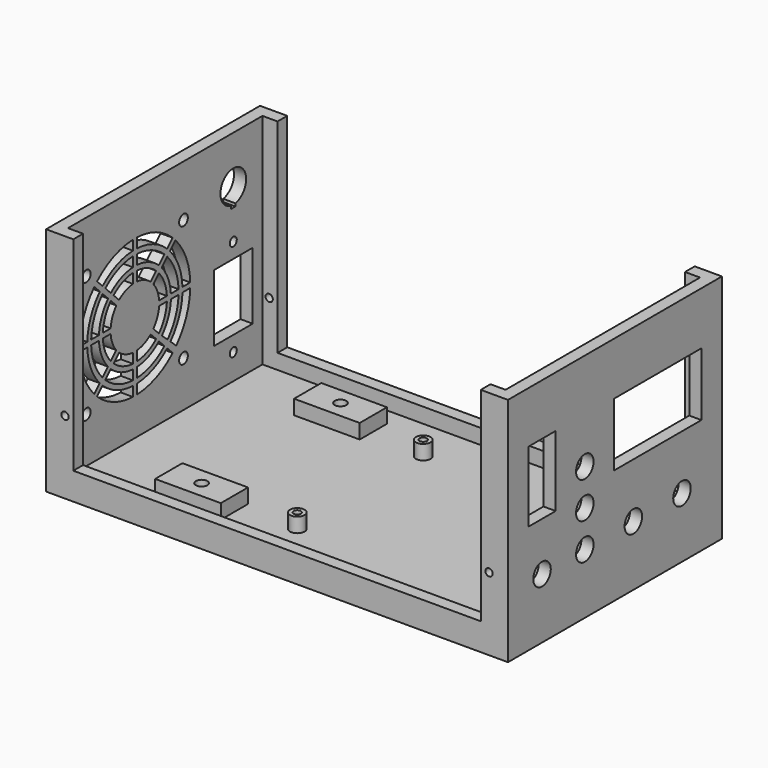
from build123d import *

# Parameters (mm, degrees)
SKETCH_W        = 190
SKETCH_H        = 110
PAD_DEPTH       = 95
SKETCH003_W     = 180
SKETCH003_H     = 100
POCKET_DEPTH    = 90
SKETCH001_R     = 4.5
SKETCH001_W     = 45
SKETCH001_H     = 26
SKETCH001_W_2   = 14
SKETCH001_H_2   = 29
POCKET001_DEPTH = 5
SKETCH005_R     = 1.5
SKETCH005_W     = 167.6
SKETCH005_H     = 83.8
POCKET003_DEPTH = 110.001
SKETCH004_R     = 3
SKETCH004_R_2   = 1.5
SKETCH004_W     = 27
SKETCH004_H     = 14
SKETCH004_R_3   = 2.3749
PAD001_DEPTH    = 6
SKETCH002_R     = 1.8
SKETCH002_R_2   = 2.25
SKETCH002_W     = 20
SKETCH002_H     = 27.5
POCKET004_DEPTH = 5


with BuildPart() as part:
    # Sketch → Pad (new body)
    with BuildSketch(Plane.XY):
        Rectangle(SKETCH_W, SKETCH_H)
    extrude(amount=PAD_DEPTH)

    # Sketch003 (on Face6 of Pad) → Pocket (cut)
    with BuildSketch(Plane.XY.offset(95)):
        Rectangle(SKETCH003_W, SKETCH003_H)
    extrude(amount=-POCKET_DEPTH, mode=Mode.SUBTRACT)

    # Sketch001 → Pocket001 (cut)
    with BuildSketch(Plane.YZ.offset(90)):
        with Locations((-15.493889, 24.795147)):
            Circle(SKETCH001_R)
        with Locations((34.461853, 24.795147)):
            Circle(SKETCH001_R)
        with Locations((-15.493889, 54.795147)):
            Circle(SKETCH001_R)
        with Locations((9.461853, 24.795147)):
            Circle(SKETCH001_R)
        with Locations((-15.493889, 39.795147)):
            Circle(SKETCH001_R)
        with Locations((-37.493889, 24.8)):
            Circle(SKETCH001_R)
        with Locations((21.961853, 60.262904)):
            Rectangle(SKETCH001_W, SKETCH001_H)
        with Locations((-37.493889, 59.3)):
            Rectangle(SKETCH001_W_2, SKETCH001_H_2)
    extrude(amount=POCKET001_DEPTH, mode=Mode.SUBTRACT)

    # Sketch005 → Pocket003 (cut, through all)
    with BuildSketch(Plane.XZ.offset(55)):
        with Locations((87.225, 30)):
            Circle(SKETCH005_R)
        with Locations((-87.225, 30)):
            Circle(SKETCH005_R)
        with Locations((0, 53.1)):
            Rectangle(SKETCH005_W, SKETCH005_H)
    extrude(amount=-POCKET003_DEPTH, mode=Mode.SUBTRACT)

    # Sketch004 → Pad001 (join)
    with BuildSketch(Plane.XY.offset(5)):
        with Locations((-9.767759, 32.384998)):
            Circle(SKETCH004_R)
        with Locations((-9.767759, 32.384998)):
            Circle(SKETCH004_R_2, mode=Mode.SUBTRACT)
        with Locations((80.402245, 32.384998)):
            Circle(SKETCH004_R)
        with Locations((80.402245, 32.384998)):
            Circle(SKETCH004_R_2, mode=Mode.SUBTRACT)
        with Locations((-9.767759, -32.384998)):
            Circle(SKETCH004_R)
        with Locations((-9.767759, -32.384998)):
            Circle(SKETCH004_R_2, mode=Mode.SUBTRACT)
        with Locations((80.402245, -32.384998)):
            Circle(SKETCH004_R)
        with Locations((80.402245, -32.384998)):
            Circle(SKETCH004_R_2, mode=Mode.SUBTRACT)
        with Locations((-46.46, 35.7124)):
            Rectangle(SKETCH004_W, SKETCH004_H)
        with Locations((-46.46, 35.7124)):
            Circle(SKETCH004_R_3, mode=Mode.SUBTRACT)
        with Locations((-46.46, -35.7124)):
            Rectangle(SKETCH004_W, SKETCH004_H)
        with Locations((-46.46, -35.7124)):
            Circle(SKETCH004_R_3, mode=Mode.SUBTRACT)
    extrude(amount=PAD001_DEPTH)

    # Sketch002 (on Face9 of Pad001) → Pocket004 (cut)
    with BuildSketch(Plane(origin=(-95, 0, 0), x_dir=(0, -1, 0), z_dir=(-1, 0, 0))):
        with Locations((-35, 55.535923)):
            Circle(SKETCH002_R)
        with Locations((-35, 15.535923)):
            Circle(SKETCH002_R)
        with Locations((-9.399825, 73.772903)):
            Circle(SKETCH002_R_2)
        with Locations((-9.399825, 23.772903)):
            Circle(SKETCH002_R_2)
        with Locations((40.600174, 23.772903)):
            Circle(SKETCH002_R_2)
        with Locations((40.600174, 73.772903)):
            Circle(SKETCH002_R_2)
        with BuildLine():
            ThreePointArc((-33.949999, 69.019982), (-35.000001, 82.135923), (-36.049999, 69.019981))
            Line((-36.049999, 67.835922), (-36.049999, 69.019981))
            Line((-36.049999, 67.835922), (-33.949999, 67.835922))
            Line((-33.949999, 67.835922), (-33.949999, 69.019982))
        make_face()
        with Locations((-35, 35.535923)):
            Rectangle(SKETCH002_W, SKETCH002_H)
        with BuildLine():
            Line((-3.836886, 69.616386), (-1.001626, 66.7904))
            ThreePointArc((14.600182, 73.252487), (6.224919, 71.408154), (-1.001626, 66.7904))
            Line((14.600182, 73.252487), (14.600182, 77.255356))
            ThreePointArc((14.600182, 77.255356), (4.691153, 75.102418), (-3.836886, 69.616386))
        make_face()
        with BuildLine():
            Line((-5.258403, 68.193761), (-2.427098, 65.364089))
            ThreePointArc((-2.427098, 65.364089), (-7.039161, 58.138293), (-8.879691, 49.765975))
            Line((-12.882518, 49.765975), (-8.879691, 49.765975))
            ThreePointArc((-5.258403, 68.193761), (-10.734898, 59.668494), (-12.882518, 49.765975))
        make_face()
        with BuildLine():
            Line((4.677071, 61.139619), (7.512644, 58.304))
            ThreePointArc((14.600174, 61.232838), (10.826253, 60.325376), (7.512644, 58.304))
            Line((14.600174, 61.232838), (14.600174, 65.242568))
            ThreePointArc((14.600174, 65.242568), (9.295522, 64.020893), (4.677071, 61.139619))
        make_face()
        with BuildLine():
            Line((3.238536, 59.701759), (6.074781, 56.867152))
            ThreePointArc((6.074781, 56.867152), (4.048059, 53.547694), (3.139687, 49.765993))
            Line((-0.869912, 49.765993), (3.139687, 49.765993))
            ThreePointArc((3.238536, 59.701759), (0.352324, 55.077904), (-0.869912, 49.765993))
        make_face()
        with BuildLine():
            Line((-1.011154, 63.948993), (1.821553, 61.117924))
            ThreePointArc((1.821553, 61.117924), (-1.495546, 55.843), (-2.873151, 49.76598))
            Line((-6.877898, 49.76598), (-2.873151, 49.76598))
            ThreePointArc((-1.011154, 63.948993), (-5.191285, 57.373203), (-6.877898, 49.76598))
        make_face()
        with BuildLine():
            Line((0.416311, 65.377129), (3.253058, 62.549649))
            ThreePointArc((14.600162, 67.245856), (8.525568, 65.866761), (3.253058, 62.549649))
            Line((14.600162, 67.245856), (14.600162, 71.25067))
            ThreePointArc((14.600162, 71.25067), (6.991802, 69.561023), (0.416311, 65.377129))
        make_face()
        with BuildLine():
            Line((23.699955, 39.252209), (26.536208, 36.417612))
            ThreePointArc((16.600309, 32.303241), (21.912863, 33.528232), (26.536208, 36.417612))
            Line((16.600309, 36.312976), (16.600309, 32.303241))
            ThreePointArc((16.600309, 36.312976), (20.381585, 37.223523), (23.699955, 39.252209))
        make_face()
        with BuildLine():
            Line((32.201826, 30.755267), (35.033142, 27.925605))
            ThreePointArc((16.6003, 20.290456), (26.506673, 22.442344), (35.033142, 27.925605))
            Line((16.6003, 24.293325), (16.6003, 20.290456))
            ThreePointArc((16.6003, 24.293325), (24.975398, 26.137639), (32.201826, 30.755267))
        make_face()
        with BuildLine():
            Line((33.669428, 32.227444), (36.503088, 29.399771))
            ThreePointArc((36.503088, 29.399771), (41.946181, 37.903775), (44.082593, 47.771961))
            Line((40.079722, 47.771961), (44.082593, 47.771961))
            ThreePointArc((33.669428, 32.227444), (38.249857, 39.43256), (40.079722, 47.771961))
        make_face()
        with BuildLine():
            Line((27.953196, 35.001451), (30.785909, 32.170389))
            ThreePointArc((16.600315, 26.295142), (24.209778, 27.985293), (30.785909, 32.170389))
            Line((16.600315, 30.299956), (16.600315, 26.295142))
            ThreePointArc((16.600315, 30.299956), (22.678504, 31.680586), (27.953196, 35.001451))
        make_face()
        with BuildLine():
            Line((29.41585, 36.469341), (32.250766, 33.639896))
            ThreePointArc((32.250766, 33.639896), (36.401261, 40.195905), (38.077902, 47.771968))
            Line((34.073092, 47.771968), (38.077902, 47.771968))
            ThreePointArc((29.41585, 36.469341), (32.705017, 41.724862), (34.073092, 47.771968))
        make_face()
        with BuildLine():
            Line((25.156402, 40.715077), (27.996437, 37.883333))
            ThreePointArc((27.996437, 37.883333), (30.856517, 42.488472), (32.069788, 47.771968))
            Line((28.060037, 47.771968), (32.069788, 47.771968))
            ThreePointArc((25.156402, 40.715077), (27.159888, 44.016532), (28.060037, 47.771968))
        make_face()
        with BuildLine():
            Line((14.600168, 36.312968), (14.600168, 32.303235))
            ThreePointArc((4.65905, 36.422124), (9.284403, 33.529511), (14.600168, 32.303235))
            Line((7.494187, 39.257496), (4.65905, 36.422124))
            ThreePointArc((7.494187, 39.257496), (10.815058, 37.225061), (14.600168, 36.312968))
        make_face()
        with BuildLine():
            Line((14.600964, 30.299906), (14.600964, 26.2951))
            ThreePointArc((0.410882, 32.173643), (6.988774, 27.986037), (14.600964, 26.2951))
            Line((3.242564, 35.005569), (0.410882, 32.173643))
            ThreePointArc((3.242564, 35.005569), (8.519427, 31.681588), (14.600964, 30.299906))
        make_face()
        with BuildLine():
            Line((14.601948, 24.293247), (14.601948, 20.29039))
            ThreePointArc((-3.835008, 27.927672), (4.693155, 22.442561), (14.601948, 20.29039))
            Line((-1.004563, 30.758112), (-3.835008, 27.927672))
            ThreePointArc((-1.004563, 30.758112), (6.223891, 26.138078), (14.601948, 24.293247))
        make_face()
        with BuildLine():
            Line((16.599628, 77.255371), (16.599628, 73.25251))
            ThreePointArc((32.202799, 66.789643), (24.975699, 71.408044), (16.599628, 73.25251))
            Line((32.202799, 66.789643), (35.033265, 69.620082))
            ThreePointArc((35.033265, 69.620082), (26.50644, 75.103556), (16.599628, 77.255371))
        make_face()
        with BuildLine():
            Line((16.600315, 71.250664), (16.600315, 67.245849))
            ThreePointArc((27.954091, 62.543552), (22.679059, 65.864989), (16.600315, 67.245849))
            Line((27.954091, 62.543552), (30.787304, 65.374142))
            ThreePointArc((30.787304, 65.374142), (24.210651, 69.560152), (16.600315, 71.250664))
        make_face()
        with BuildLine():
            Line((16.600325, 65.242563), (16.600325, 61.232825))
            ThreePointArc((23.703608, 58.290483), (20.383808, 60.321358), (16.600325, 61.232825))
            Line((23.703608, 58.290483), (26.539715, 61.125087))
            ThreePointArc((26.539715, 61.125087), (21.915035, 64.016674), (16.600325, 65.242563))
        make_face()
        with BuildLine():
            Line((-12.882568, 47.781256), (-8.879749, 47.781256))
            ThreePointArc((-8.879749, 47.781256), (-7.115205, 39.593494), (-2.695845, 32.478557))
            Line((-5.676598, 29.811128), (-2.695845, 32.478557))
            ThreePointArc((-12.882568, 47.781256), (-10.852306, 38.165535), (-5.676598, 29.811128))
        make_face()
        with BuildLine():
            Line((-6.87782, 47.773398), (-2.959977, 47.773398))
            ThreePointArc((-2.959977, 47.773398), (-1.588953, 41.700979), (1.710259, 36.421852))
            Line((-1.205618, 33.812134), (1.710259, 36.421852))
            ThreePointArc((-6.87782, 47.773398), (-5.245285, 40.303779), (-1.205618, 33.812134))
        make_face()
        with BuildLine():
            Line((-0.869609, 47.774821), (3.140086, 47.774821))
            ThreePointArc((3.140086, 47.774821), (4.051314, 43.990249), (6.082564, 40.669505))
            Line((3.24724, 37.834212), (6.082564, 40.669505))
            ThreePointArc((-0.869609, 47.774821), (0.355792, 42.459524), (3.24724, 37.834212))
        make_face()
        with BuildLine():
            Line((28.060663, 49.765982), (32.070263, 49.765982))
            ThreePointArc((32.070263, 49.765982), (30.844658, 55.086043), (27.950131, 59.714959))
            Line((27.950131, 59.714959), (25.114962, 56.879616))
            ThreePointArc((28.060663, 49.765982), (27.149163, 53.55525), (25.114962, 56.879616))
        make_face()
        with BuildLine():
            Line((34.073502, 49.765978), (38.078248, 49.765978))
            ThreePointArc((38.078248, 49.765978), (36.387886, 57.38226), (32.198274, 63.963462))
            Line((32.198274, 63.963462), (29.3678, 61.130188))
            ThreePointArc((34.073502, 49.765978), (32.692748, 55.85061), (29.3678, 61.130188))
        make_face()
        with BuildLine():
            Line((40.08004, 49.765984), (44.082867, 49.765984))
            ThreePointArc((44.082867, 49.765984), (41.931118, 59.67847), (36.444038, 68.209552))
            Line((36.444038, 68.209552), (33.613715, 65.378998))
            ThreePointArc((40.08004, 49.765984), (38.235632, 58.147661), (33.613715, 65.378998))
        make_face()
    extrude(amount=-POCKET004_DEPTH, mode=Mode.SUBTRACT)


solid = part.part
